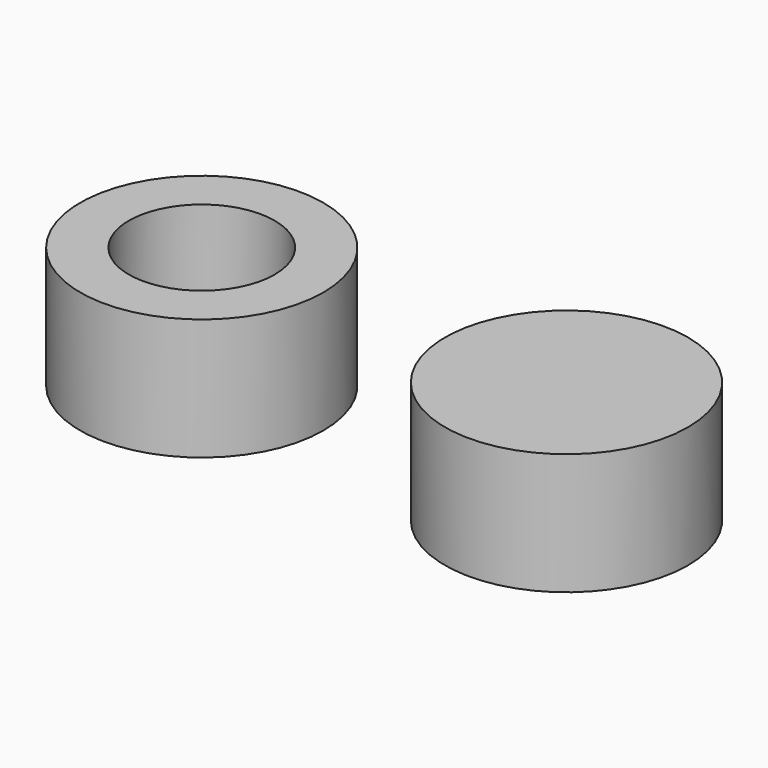
from build123d import *

# Parameters (mm, degrees)
F0_R     = 50
F0_R_2   = 30
F1_DEPTH = 50
F2_DEPTH = 50


with BuildPart() as f1:
    # F0 (on Top) → F1 (new body)
    with BuildSketch(Plane.XY):
        Circle(F0_R)
        Circle(F0_R_2, mode=Mode.SUBTRACT)
    extrude(amount=F1_DEPTH)


with BuildPart() as f2:
    # F0 (on Top) → F2 (new body)
    with BuildSketch(Plane.XY):
        Circle(F0_R)
        Circle(F0_R_2, mode=Mode.SUBTRACT)
        Circle(F0_R_2)
    extrude(amount=F2_DEPTH)


with BuildPart() as f2_1:
    # F3: moved
    add(f2.part.moved(Location((150, 0, 0))))


solid = Compound([f1.part, f2_1.part])
